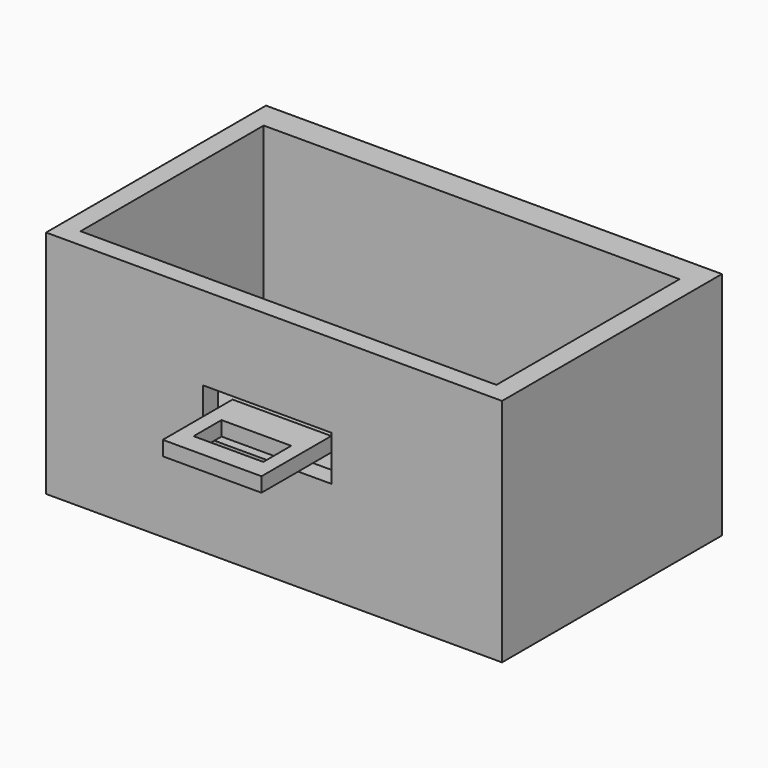
from build123d import *

# Parameters (mm, degrees)
F0_W     = 117.983
F0_H     = 59.563
F1_DEPTH = 71.12
F2_W     = 33.243593
F2_H     = 11.644649
F3_DEPTH = 7.62
F4_W     = 25.543099
F4_H     = 3.756338
F5_DEPTH = 25.4
F6_W     = 18.030422
F6_H     = 9.030842
F7_DEPTH = 5.08
F8_W     = 107.619088
F8_H     = 59.231747
F9_DEPTH = 50.8


with BuildPart() as f1:
    # F0 (on Front) → F1 (new body)
    with BuildSketch(Plane.XZ):
        with Locations((1.516951, -10.423838)):
            Rectangle(F0_W, F0_H)
    extrude(amount=F1_DEPTH)

    # F2 (on face) → F3 (cut)
    with BuildSketch(Plane.XZ.offset(71.12)):
        with Locations((-0.187817, -8.067896)):
            Rectangle(F2_W, F2_H)
    extrude(amount=-F3_DEPTH, mode=Mode.SUBTRACT)

    # F4 (on face) → F5 (join)
    with BuildSketch(Plane.XZ.offset(63.5)):
        with Locations((-0.281726, -8.067896)):
            Rectangle(F4_W, F4_H)
    extrude(amount=F5_DEPTH)

    # F6 (on face) → F7 (cut)
    with BuildSketch(Plane(origin=(0, 0, -9.946065), x_dir=(1, 0, 0), z_dir=(0, 0, -1))):
        with Locations((-0.167796, 79.258036)):
            Rectangle(F6_W, F6_H)
    extrude(amount=-F7_DEPTH, mode=Mode.SUBTRACT)

    # F8 (on face) → F9 (cut)
    with BuildSketch(Plane.XY.offset(19.357662)):
        with Locations((1.428647, -36.718971)):
            Rectangle(F8_W, F8_H)
    extrude(amount=-F9_DEPTH, mode=Mode.SUBTRACT)


solid = f1.part
